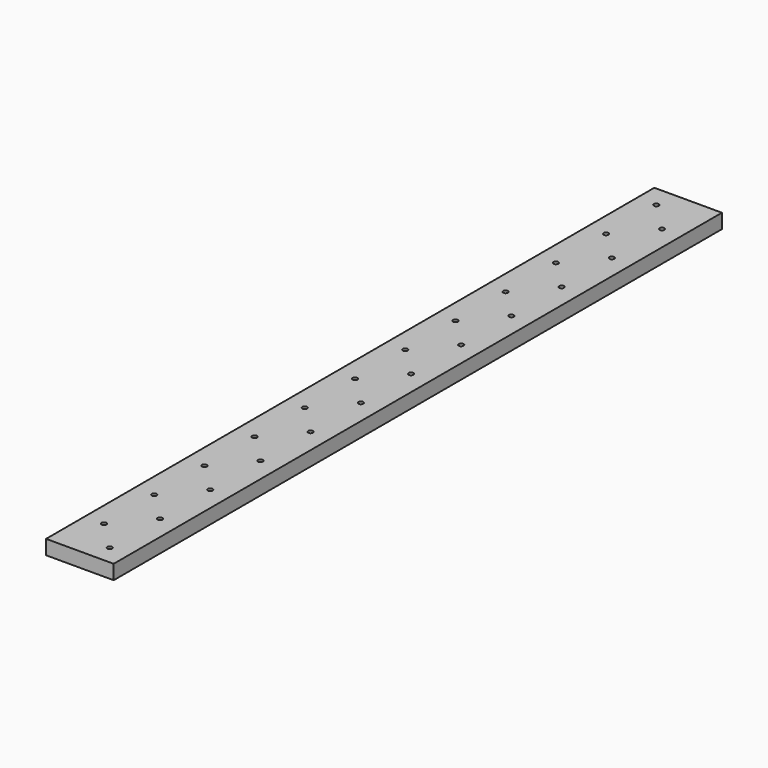
from build123d import *

# Parameters (mm, degrees)
F0_W     = 88.9
F0_H     = 19.05
F1_DEPTH = 500.0625
F2_R     = 3.175
F3_DEPTH = 19.05


with BuildPart() as f1:
    # F0 (on Front) → F1 (new body, symmetric)
    with BuildSketch(Plane.XZ):
        Rectangle(F0_W, F0_H)
    extrude(amount=F1_DEPTH, both=True)

    # F2 (on face) → F3 (cut, through all)
    with BuildSketch(Plane.XY.offset(9.525)):
        with Locations((19.05, -474.6625)):
            Circle(F2_R)
        with Locations((-19.05, -436.5625)):
            Circle(F2_R)
        with Locations((-19.05, -354.0125)):
            Circle(F2_R)
        with Locations((19.05, -392.1125)):
            Circle(F2_R)
        with Locations((-19.05, -271.4625)):
            Circle(F2_R)
        with Locations((19.05, -309.5625)):
            Circle(F2_R)
        with Locations((-19.05, -188.9125)):
            Circle(F2_R)
        with Locations((19.05, -227.0125)):
            Circle(F2_R)
        with Locations((-19.05, -106.3625)):
            Circle(F2_R)
        with Locations((19.05, -144.4625)):
            Circle(F2_R)
        with Locations((-19.05, -23.8125)):
            Circle(F2_R)
        with Locations((19.05, -61.9125)):
            Circle(F2_R)
        with Locations((-19.05, 58.7375)):
            Circle(F2_R)
        with Locations((19.05, 20.6375)):
            Circle(F2_R)
        with Locations((-19.05, 141.2875)):
            Circle(F2_R)
        with Locations((19.05, 103.1875)):
            Circle(F2_R)
        with Locations((-19.05, 223.8375)):
            Circle(F2_R)
        with Locations((19.05, 185.7375)):
            Circle(F2_R)
        with Locations((-19.05, 306.3875)):
            Circle(F2_R)
        with Locations((19.05, 268.2875)):
            Circle(F2_R)
        with Locations((-19.05, 388.9375)):
            Circle(F2_R)
        with Locations((19.05, 350.8375)):
            Circle(F2_R)
        with Locations((-19.05, 471.4875)):
            Circle(F2_R)
        with Locations((19.05, 433.3875)):
            Circle(F2_R)
    extrude(amount=-F3_DEPTH, mode=Mode.SUBTRACT)


solid = f1.part
